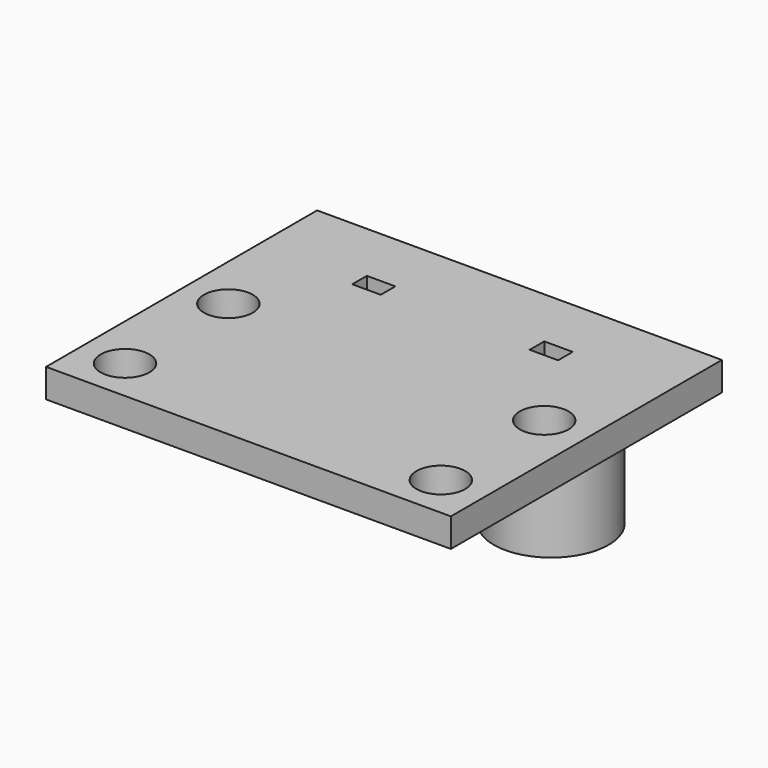
from build123d import *

# Parameters (mm, degrees)
SKETCH013_W             = 28.2
SKETCH013_H             = 23.6
PAD004_DEPTH            = 2
SKETCH014_W             = 1.9812
SKETCH014_H             = 1.27
POCKET005_DEPTH         = 2
SKETCH015_R             = 4
SKETCH015_R_2           = 2.5
PAD005_DEPTH            = 8.6
SKETCH016_R             = 1.7
POCKET006_DEPTH         = 2
BODY002_PLACEMENT_ANGLE = 180


with BuildPart() as part:
    # Sketch013 → Pad004 (new body)
    with BuildSketch(Plane.XY):
        with Locations((0, -33.4375)):
            Rectangle(SKETCH013_W, SKETCH013_H)
    extrude(amount=PAD004_DEPTH)

    # Sketch014 (on Face6 of Pad004) → Pocket005 (cut)
    with BuildSketch(Plane.XY.offset(2)):
        with Locations((-6.1781, -26.6025)):
            Rectangle(SKETCH014_W, SKETCH014_H)
        with Locations((6.1781, -26.6025)):
            Rectangle(SKETCH014_W, SKETCH014_H)
    extrude(amount=-POCKET005_DEPTH, mode=Mode.SUBTRACT)

    # Sketch015 (on Face5 of Pocket005) → Pad005 (join)
    with BuildSketch(Plane.XY.offset(2)):
        with Locations((-6.1781, -26.6025)):
            Circle(SKETCH015_R)
        with Locations((-6.1781, -26.6025)):
            Circle(SKETCH015_R_2, mode=Mode.SUBTRACT)
        with Locations((6.1781, -26.6025)):
            Circle(SKETCH015_R)
        with Locations((6.1781, -26.6025)):
            Circle(SKETCH015_R_2, mode=Mode.SUBTRACT)
    extrude(amount=PAD005_DEPTH)

    # Sketch016 (on Face5 of Pad005) → Pocket006 (cut)
    with BuildSketch(Plane.XY.offset(2)):
        with Locations((-11, -42.2375)):
            Circle(SKETCH016_R)
        with Locations((11, -42.2375)):
            Circle(SKETCH016_R)
        with Locations((-11, -33.2375)):
            Circle(SKETCH016_R)
        with Locations((11, -33.2375)):
            Circle(SKETCH016_R)
    extrude(amount=-POCKET006_DEPTH, mode=Mode.SUBTRACT)


with BuildPart() as part_1:
    # Body002 placement: moved
    add(part.part.rotate(Axis((0, 0, 0), (0, 1, 0)), BODY002_PLACEMENT_ANGLE))


solid = part_1.part
